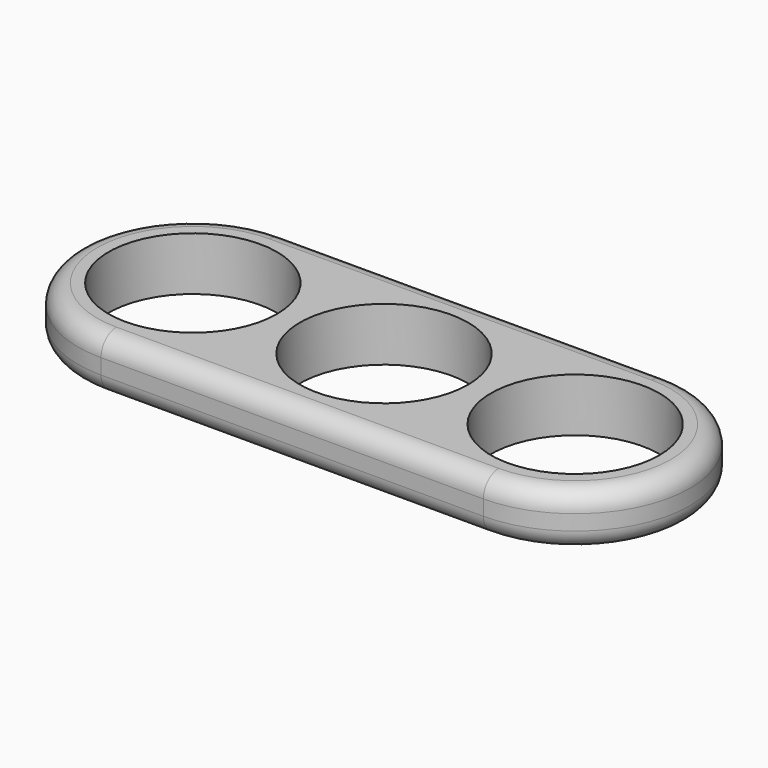
from build123d import *

# Parameters (mm, degrees)
F0_W     = 50.8
F0_H     = 30.48
F1_DEPTH = 7.112
F2_R     = 11.176
F3_DEPTH = 25.4
F4_R     = 2.54


with BuildPart() as f1:
    # F0 (on Top) → F1 (new body)
    with BuildSketch(Plane.XY):
        Rectangle(F0_W, F0_H)
        with BuildLine():
            ThreePointArc((25.4, -15.24), (40.64, 0), (25.4, 15.24))
            Line((25.4, 15.24), (25.4, -15.24))
        make_face()
        with BuildLine():
            Line((-25.4, -15.24), (-25.4, 15.24))
            ThreePointArc((-25.4, 15.24), (-40.64, 0), (-25.4, -15.24))
        make_face()
    extrude(amount=F1_DEPTH)

    # F2 (on face) → F3 (cut)
    with BuildSketch(Plane.XY.offset(7.112)):
        Circle(F2_R)
        with Locations((-25.4, 0)):
            Circle(F2_R)
        with Locations((25.4, 0)):
            Circle(F2_R)
    extrude(amount=-F3_DEPTH, mode=Mode.SUBTRACT)

    # F4
    f4_edges = [f1.edges().sort_by_distance(p)[0] for p in [
        (0, 15.24, 0),
        (-40.64, 0, 0),
        (0, -15.24, 0),
        (40.64, 0, 0),
        (40.64, 0, 7.112),
        (0, 15.24, 7.112),
        (-40.64, 0, 7.112),
        (0, -15.24, 7.112),
    ]]
    fillet(f4_edges, radius=F4_R)


solid = f1.part
